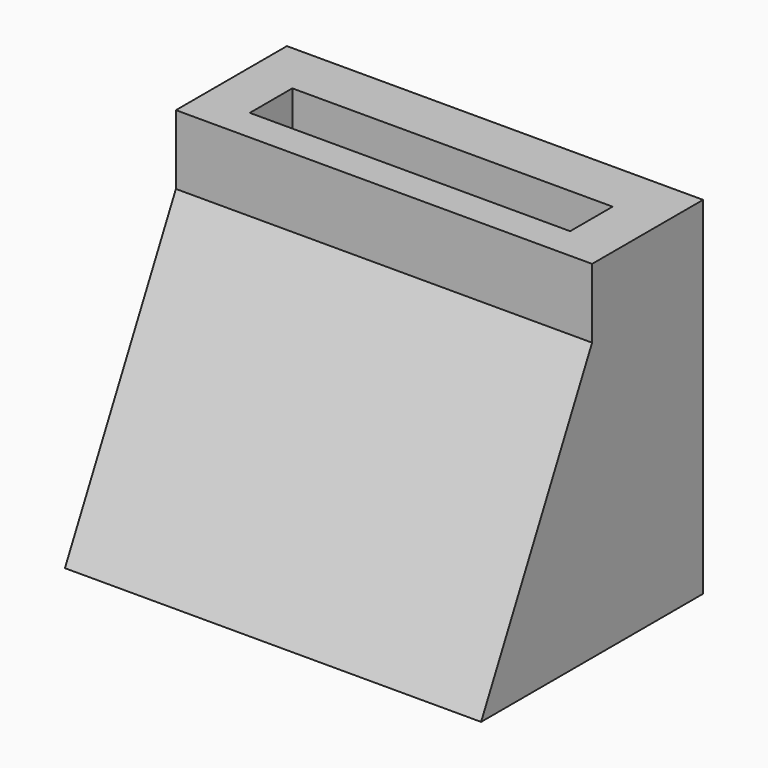
from build123d import *

# Parameters (mm, degrees)
F0_W        = 76.2
F0_H        = 50.8
F1_DEPTH    = 50.8
F2_W        = 58.6486
F2_H        = 9.7282
F3_DEPTH    = 19.05
F5_DEPTH    = 76.2
F1_FACE_W   = 76.2
F1_FACE_H   = 25.4
F1_FACE_W_2 = 58.6486
F1_FACE_H_2 = 9.7282
F6_DEPTH    = 12.7


with BuildPart() as f1:
    # F0 (on Top) → F1 (new body)
    with BuildSketch(Plane.XY):
        with Locations((7.004574, -5.004832)):
            Rectangle(F0_W, F0_H)
    extrude(amount=F1_DEPTH)

    # F2 (on face) → F3 (cut)
    with BuildSketch(Plane.XY.offset(50.8)):
        with Locations((7.004574, 5.802868)):
            Rectangle(F2_W, F2_H)
    extrude(amount=-F3_DEPTH, mode=Mode.SUBTRACT)

    # F4 (on face) → F5 (cut)
    with BuildSketch(Plane(origin=(-31.095426, 0, 0), x_dir=(0, -1, 0), z_dir=(-1, 0, 0))):
        Polygon((30.404832, 50.8), (5.004832, 50.8), (30.404832, 0), align=None)
    extrude(amount=-F5_DEPTH, mode=Mode.SUBTRACT)

    # F1_face (on face) → F6 (join)
    with BuildSketch(Plane(origin=(7.004574, -5.004832, 50.8), x_dir=(1, 0, 0), z_dir=(0, 0, 1))):
        with Locations((0, 12.7)):
            Rectangle(F1_FACE_W, F1_FACE_H)
        with Locations((0, 10.8077)):
            Rectangle(F1_FACE_W_2, F1_FACE_H_2, mode=Mode.SUBTRACT)
    extrude(amount=F6_DEPTH)


solid = f1.part
